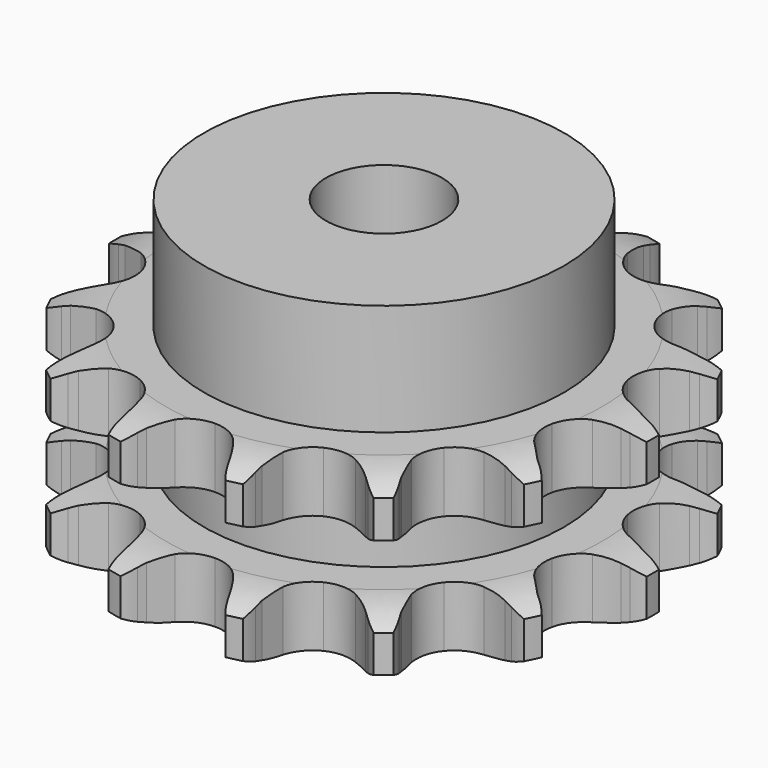
from build123d import *

# Parameters (mm, degrees)
PAD_DEPTH         = 15.4
SKETCH001_R       = 15.5
PAD001_DEPTH      = 25
SKETCH002_R       = 5
POCKET_DEPTH      = 0.001
POCKET_DEPTH_BACK = 25.001


with BuildPart() as part:
    # Sprocket → Pad (new body)
    with BuildSketch(Plane.XY):
        with BuildLine():
            ThreePointArc((-5.383548, 23.586867), (-4.518416, 22.72538), (-3.873288, 21.688836))
            Line((-3.873288, 21.688836), (-3.580974, 21.070043))
            ThreePointArc((-3.580974, 21.070043), (-3.092456, 20.180906), (-2.499221, 19.357933))
            ThreePointArc((-2.499221, 19.357933), (-1.382839, 18.484598), (0, 18.173506))
            ThreePointArc((0, 18.173506), (1.382839, 18.484598), (2.499221, 19.357933))
            ThreePointArc((2.499221, 19.357933), (3.092456, 20.180906), (3.580974, 21.070043))
            Line((3.580974, 21.070043), (3.873288, 21.688836))
            ThreePointArc((3.873288, 21.688836), (4.518416, 22.72538), (5.383548, 23.586867))
            ThreePointArc((5.383548, 23.586867), (5.789221, 22.435327), (5.920722, 21.221523))
            Line((5.920722, 21.221523), (5.915603, 20.537179))
            ThreePointArc((5.915603, 20.537179), (5.969961, 19.524135), (6.147372, 18.525266))
            ThreePointArc((6.147372, 18.525266), (6.774272, 17.254039), (7.885189, 16.373763))
            ThreePointArc((7.885189, 16.373763), (9.266061, 16.054057), (10.650812, 16.356524))
            Line((10.650812, 16.356524), (12.368295, 17.429726))
            ThreePointArc((12.368295, 17.429726), (12.629784, 17.650546), (12.900145, 17.86041))
            ThreePointArc((12.900145, 17.86041), (13.931125, 18.514393), (15.084367, 18.915199))
            ThreePointArc((15.084367, 18.915199), (14.950231, 17.701683), (14.54206, 16.551027))
            Line((14.54206, 16.551027), (14.240522, 15.936675))
            ThreePointArc((14.240522, 15.936675), (13.849953, 15.000369), (13.576403, 14.023443))
            ThreePointArc((13.576403, 14.023443), (13.589655, 12.606105), (14.208619, 11.330995))
            ThreePointArc((14.208619, 11.330995), (15.314027, 10.443812), (16.69288, 10.115504))
            Line((16.69288, 10.115504), (18.705923, 10.337238))
            ThreePointArc((18.705923, 10.337238), (19.037327, 10.422734), (19.371971, 10.49451))
            ThreePointArc((19.371971, 10.49451), (20.584604, 10.636403), (21.797543, 10.497143))
            ThreePointArc((21.797543, 10.497143), (21.150165, 9.462003), (20.283164, 8.602397))
            Line((20.283164, 8.602397), (19.744931, 8.179717))
            ThreePointArc((19.744931, 8.179717), (18.986793, 7.505596), (18.31646, 6.744105))
            ThreePointArc((18.31646, 6.744105), (17.71344, 5.461378), (17.717858, 4.043985))
            ThreePointArc((17.717858, 4.043985), (18.328862, 2.765042), (19.428718, 1.870985))
            Line((19.428718, 1.870985), (21.338614, 1.197334))
            ThreePointArc((21.338614, 1.197334), (21.674294, 1.130573), (22.00694, 1.050044))
            ThreePointArc((22.00694, 1.050044), (23.16105, 0.651743), (24.193447, 0))
            ThreePointArc((24.193447, 0), (23.16105, -0.651743), (22.00694, -1.050044))
            Line((22.00694, -1.050044), (21.338614, -1.197334))
            ThreePointArc((21.338614, -1.197334), (20.363065, -1.475753), (19.428718, -1.870985))
            ThreePointArc((19.428718, -1.870985), (18.328862, -2.765042), (17.717858, -4.043985))
            ThreePointArc((17.717858, -4.043985), (17.71344, -5.461378), (18.31646, -6.744105))
            Line((18.31646, -6.744105), (19.744931, -8.179717))
            ThreePointArc((19.744931, -8.179717), (20.018401, -8.385513), (20.283164, -8.602397))
            ThreePointArc((20.283164, -8.602397), (21.150165, -9.462003), (21.797543, -10.497143))
            ThreePointArc((21.797543, -10.497143), (20.584604, -10.636403), (19.371971, -10.49451))
            Line((19.371971, -10.49451), (18.705923, -10.337238))
            ThreePointArc((18.705923, -10.337238), (17.706183, -10.16481), (16.69288, -10.115504))
            ThreePointArc((16.69288, -10.115504), (15.314027, -10.443812), (14.208619, -11.330995))
            ThreePointArc((14.208619, -11.330995), (13.589655, -12.606105), (13.576403, -14.023443))
            Line((13.576403, -14.023443), (14.240522, -15.936675))
            ThreePointArc((14.240522, -15.936675), (14.397619, -16.240745), (14.54206, -16.551027))
            ThreePointArc((14.54206, -16.551027), (14.950231, -17.701683), (15.084367, -18.915199))
            ThreePointArc((15.084367, -18.915199), (13.931125, -18.514393), (12.900145, -17.86041))
            Line((12.900145, -17.86041), (12.368295, -17.429726))
            ThreePointArc((12.368295, -17.429726), (11.542374, -16.840602), (10.650812, -16.356524))
            ThreePointArc((10.650812, -16.356524), (9.266061, -16.054057), (7.885189, -16.373763))
            ThreePointArc((7.885189, -16.373763), (6.774272, -17.254039), (6.147372, -18.525266))
            Line((6.147372, -18.525266), (5.915603, -20.537179))
            ThreePointArc((5.915603, -20.537179), (5.925211, -20.879298), (5.920722, -21.221523))
            ThreePointArc((5.920722, -21.221523), (5.789221, -22.435327), (5.383548, -23.586867))
            ThreePointArc((5.383548, -23.586867), (4.518416, -22.72538), (3.873288, -21.688836))
            Line((3.873288, -21.688836), (3.580974, -21.070043))
            ThreePointArc((3.580974, -21.070043), (3.092456, -20.180906), (2.499221, -19.357933))
            ThreePointArc((2.499221, -19.357933), (1.382839, -18.484598), (0, -18.173506))
            ThreePointArc((0, -18.173506), (-1.382839, -18.484598), (-2.499221, -19.357933))
            Line((-2.499221, -19.357933), (-3.580974, -21.070043))
            ThreePointArc((-3.580974, -21.070043), (-3.720757, -21.38245), (-3.873288, -21.688836))
            ThreePointArc((-3.873288, -21.688836), (-4.518416, -22.72538), (-5.383548, -23.586867))
            ThreePointArc((-5.383548, -23.586867), (-5.789221, -22.435327), (-5.920722, -21.221523))
            Line((-5.920722, -21.221523), (-5.915603, -20.537179))
            ThreePointArc((-5.915603, -20.537179), (-5.969961, -19.524135), (-6.147372, -18.525266))
            ThreePointArc((-6.147372, -18.525266), (-6.774272, -17.254039), (-7.885189, -16.373763))
            ThreePointArc((-7.885189, -16.373763), (-9.266061, -16.054057), (-10.650812, -16.356524))
            Line((-10.650812, -16.356524), (-12.368295, -17.429726))
            ThreePointArc((-12.368295, -17.429726), (-12.629784, -17.650546), (-12.900145, -17.86041))
            ThreePointArc((-12.900145, -17.86041), (-13.931125, -18.514393), (-15.084367, -18.915199))
            ThreePointArc((-15.084367, -18.915199), (-14.950231, -17.701683), (-14.54206, -16.551027))
            Line((-14.54206, -16.551027), (-14.240522, -15.936675))
            ThreePointArc((-14.240522, -15.936675), (-13.849953, -15.000369), (-13.576403, -14.023443))
            ThreePointArc((-13.576403, -14.023443), (-13.589655, -12.606105), (-14.208619, -11.330995))
            ThreePointArc((-14.208619, -11.330995), (-15.314027, -10.443812), (-16.69288, -10.115504))
            Line((-16.69288, -10.115504), (-18.705923, -10.337238))
            ThreePointArc((-18.705923, -10.337238), (-19.037327, -10.422734), (-19.371971, -10.49451))
            ThreePointArc((-19.371971, -10.49451), (-20.584604, -10.636403), (-21.797543, -10.497143))
            ThreePointArc((-21.797543, -10.497143), (-21.150165, -9.462003), (-20.283164, -8.602397))
            Line((-20.283164, -8.602397), (-19.744931, -8.179717))
            ThreePointArc((-19.744931, -8.179717), (-18.986793, -7.505596), (-18.31646, -6.744105))
            ThreePointArc((-18.31646, -6.744105), (-17.71344, -5.461378), (-17.717858, -4.043985))
            ThreePointArc((-17.717858, -4.043985), (-18.328862, -2.765042), (-19.428718, -1.870985))
            Line((-19.428718, -1.870985), (-21.338614, -1.197334))
            ThreePointArc((-21.338614, -1.197334), (-21.674294, -1.130573), (-22.00694, -1.050044))
            ThreePointArc((-22.00694, -1.050044), (-23.16105, -0.651743), (-24.193447, 0))
            ThreePointArc((-24.193447, 0), (-23.16105, 0.651743), (-22.00694, 1.050044))
            Line((-22.00694, 1.050044), (-21.338614, 1.197334))
            ThreePointArc((-21.338614, 1.197334), (-20.363065, 1.475753), (-19.428718, 1.870985))
            ThreePointArc((-19.428718, 1.870985), (-18.328862, 2.765042), (-17.717858, 4.043985))
            ThreePointArc((-17.717858, 4.043985), (-17.71344, 5.461378), (-18.31646, 6.744105))
            Line((-18.31646, 6.744105), (-19.744931, 8.179717))
            ThreePointArc((-19.744931, 8.179717), (-20.018401, 8.385513), (-20.283164, 8.602397))
            ThreePointArc((-20.283164, 8.602397), (-21.150165, 9.462003), (-21.797543, 10.497143))
            ThreePointArc((-21.797543, 10.497143), (-20.584604, 10.636403), (-19.371971, 10.49451))
            Line((-19.371971, 10.49451), (-18.705923, 10.337238))
            ThreePointArc((-18.705923, 10.337238), (-17.706183, 10.16481), (-16.69288, 10.115504))
            ThreePointArc((-16.69288, 10.115504), (-15.314027, 10.443812), (-14.208619, 11.330995))
            ThreePointArc((-14.208619, 11.330995), (-13.589655, 12.606105), (-13.576403, 14.023443))
            Line((-13.576403, 14.023443), (-14.240522, 15.936675))
            ThreePointArc((-14.240522, 15.936675), (-14.397619, 16.240745), (-14.54206, 16.551027))
            ThreePointArc((-14.54206, 16.551027), (-14.950231, 17.701683), (-15.084367, 18.915199))
            ThreePointArc((-15.084367, 18.915199), (-13.931125, 18.514393), (-12.900145, 17.86041))
            Line((-12.900145, 17.86041), (-12.368295, 17.429726))
            ThreePointArc((-12.368295, 17.429726), (-11.542374, 16.840602), (-10.650812, 16.356524))
            ThreePointArc((-10.650812, 16.356524), (-9.266061, 16.054057), (-7.885189, 16.373763))
            ThreePointArc((-7.885189, 16.373763), (-6.774272, 17.254039), (-6.147372, 18.525266))
            Line((-6.147372, 18.525266), (-5.915603, 20.537179))
            ThreePointArc((-5.915603, 20.537179), (-5.925211, 20.879298), (-5.920722, 21.221523))
            ThreePointArc((-5.920722, 21.221523), (-5.789221, 22.435327), (-5.383548, 23.586867))
        make_face()
    extrude(amount=PAD_DEPTH)

    # Sketch → Groove (revolve, cut)
    with BuildSketch(Plane.XZ):
        with BuildLine():
            ThreePointArc((18.791101, 0), (21.027169, 0.253206), (23.15, 1))
            Line((23.15, 1), (23.15, 4.2))
            ThreePointArc((23.15, 4.2), (21.027169, 4.946794), (18.791101, 5.2))
            Line((15.5, 5.2), (18.791101, 5.2))
            Line((15.5, 10.2), (15.5, 5.2))
            Line((18.791101, 10.2), (15.5, 10.2))
            ThreePointArc((18.791101, 10.2), (21.027169, 10.453206), (23.15, 11.2))
            Line((23.15, 11.2), (23.15, 14.4))
            ThreePointArc((23.15, 14.4), (21.027169, 15.146794), (18.791101, 15.4))
            Line((18.791101, 15.4), (28.791101, 15.4))
            Line((28.791101, 15.4), (28.791101, 0))
            Line((18.791101, 0), (28.791101, 0))
        make_face()
    revolve(axis=Axis((0, 0, 0), (0, 0, 1)), mode=Mode.SUBTRACT)

    # Sketch001 → Pad001 (join)
    with BuildSketch(Plane.XY):
        Circle(SKETCH001_R)
    extrude(amount=PAD001_DEPTH)

    # Sketch002 → Pocket (cut, two sides)
    with BuildSketch(Plane.XY) as pocket_sk:
        Circle(SKETCH002_R)
    extrude(amount=-POCKET_DEPTH, mode=Mode.SUBTRACT)
    extrude(pocket_sk.sketch, amount=POCKET_DEPTH_BACK, mode=Mode.SUBTRACT)


solid = part.part
